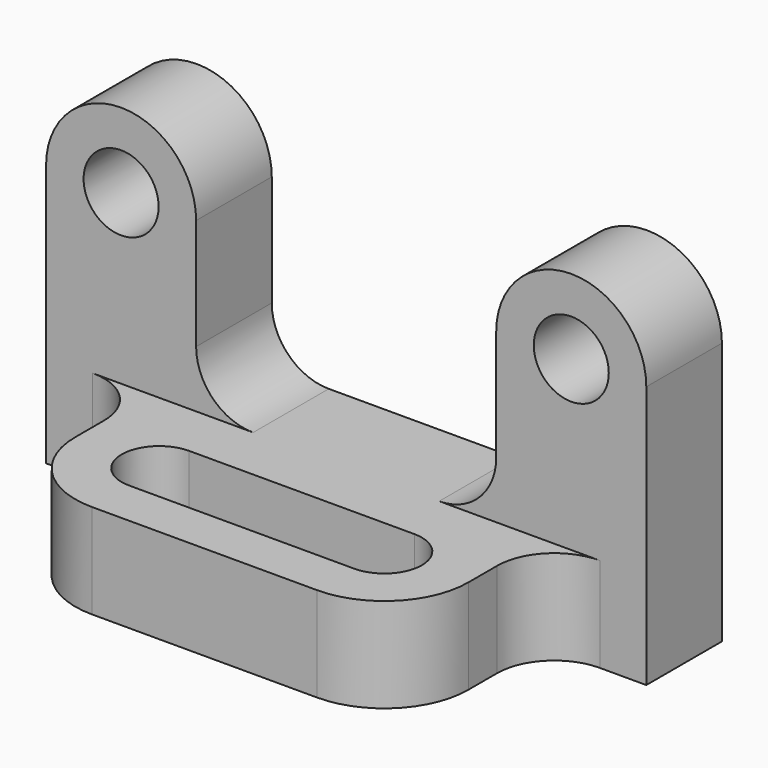
from build123d import *

# Parameters (mm, degrees)
F0_R     = 6.35
F1_DEPTH = 16.002
F3_DEPTH = 29.972
F5_DEPTH = 57.151


with BuildPart() as f1:
    # F0 (on Front) → F1 (new body)
    with BuildSketch(Plane.XZ):
        with BuildLine():
            Line((0, 44.45), (0, 0))
            Line((0, 0), (101.6, 0))
            Line((101.6, 0), (101.6, 44.45))
            ThreePointArc((101.6, 44.45), (88.9, 57.15), (76.2, 44.45))
            Line((76.2, 44.45), (76.2, 25.654))
            ThreePointArc((76.2, 25.654), (73.372995, 18.829005), (66.548, 16.002))
            Line((66.548, 16.002), (35.052, 16.002))
            ThreePointArc((35.052, 16.002), (28.227005, 18.829005), (25.4, 25.654))
            Line((25.4, 25.654), (25.4, 44.45))
            ThreePointArc((25.4, 44.45), (12.7, 57.15), (0, 44.45))
        make_face()
        with Locations((12.7, 44.45)):
            Circle(F0_R, mode=Mode.SUBTRACT)
        with Locations((88.9, 44.45)):
            Circle(F0_R, mode=Mode.SUBTRACT)
    extrude(amount=F1_DEPTH)

    # F2 (on face) → F3 (join)
    with BuildSketch(Plane.XZ.offset(16.002)):
        Polygon((0, 16.002), (0, 0), (101.6, 0), (101.6, 16.002), (66.548, 16.002), (35.052, 16.002), align=None)
    extrude(amount=F3_DEPTH)

    # F4 (on face) → F5 (cut, through all)
    with BuildSketch(Plane(origin=(0, 0, 0), x_dir=(1, 0, 0), z_dir=(0, 0, -1))):
        with BuildLine():
            ThreePointArc((17.526, 31.75), (21.692113, 41.807887), (31.75, 45.974))
            Line((31.75, 45.974), (0, 45.974))
            Line((0, 45.974), (0, 16.002))
            Line((0, 16.002), (7.874, 16.002))
            ThreePointArc((7.874, 16.002), (14.698995, 18.829005), (17.526, 25.654))
            Line((17.526, 25.654), (17.526, 31.75))
        make_face()
        with BuildLine():
            Line((101.6, 45.974), (69.85, 45.974))
            ThreePointArc((69.85, 45.974), (79.907887, 41.807887), (84.074, 31.75))
            Line((84.074, 31.75), (84.074, 25.654))
            ThreePointArc((84.074, 25.654), (86.901005, 18.829005), (93.726, 16.002))
            Line((93.726, 16.002), (101.6, 16.002))
            Line((101.6, 16.002), (101.6, 45.974))
        make_face()
        with BuildLine():
            Line((69.85, 38.1), (31.75, 38.1))
            ThreePointArc((31.75, 38.1), (25.4, 31.75), (31.75, 25.4))
            Line((31.75, 25.4), (69.85, 25.4))
            ThreePointArc((69.85, 25.4), (76.2, 31.75), (69.85, 38.1))
        make_face()
    extrude(amount=-F5_DEPTH, mode=Mode.SUBTRACT)


solid = f1.part
